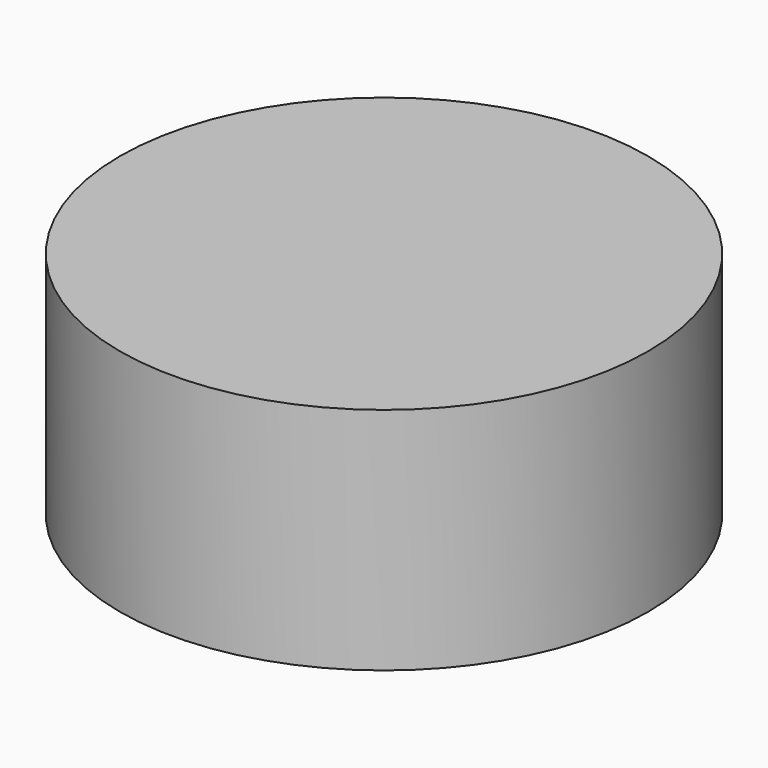
from build123d import *

# Parameters (mm, degrees)
CYLINDER_R     = 17.272
CYLINDER_DEPTH = 15


with BuildPart() as part:
    # Cylinder → Cylinder (new body)
    with BuildSketch(Plane.XY.offset(-2.5)):
        Circle(CYLINDER_R)
    extrude(amount=CYLINDER_DEPTH)


solid = part.part
